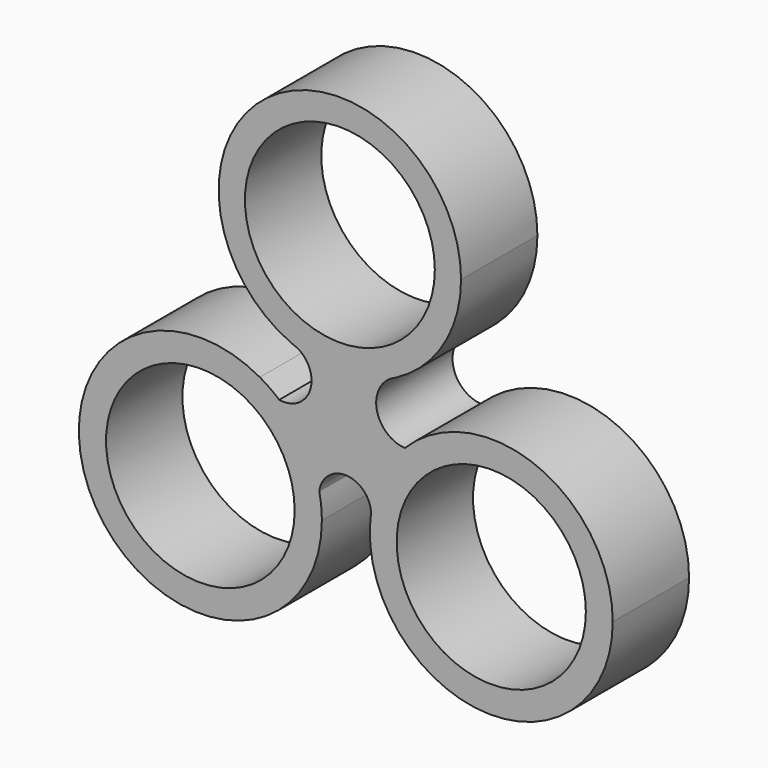
from build123d import *

# Parameters (mm, degrees)
F0_R     = 25.269609
F0_R_2   = 25.096928
F0_R_3   = 25.172724
F1_DEPTH = 11.176
F2_DEPTH = 25.4


with BuildPart() as f1:
    # F0 (on Front) → F1 (new body)
    with BuildSketch(Plane.XZ):
        with BuildLine():
            ThreePointArc((14.880747, 3.041589), (27.571248, 14.919512), (32.254797, 31.658635))
            ThreePointArc((32.254797, 31.658635), (-17.614406, 58.679083), (-13.016276, 2.146798))
            ThreePointArc((-13.016276, 2.146798), (-12.125286, 1.849014), (-11.279411, 1.440316))
            ThreePointArc((-11.279411, 1.440316), (1.247761, -0.572019), (13.581863, 2.402782))
            ThreePointArc((13.581863, 2.402782), (14.217084, 2.751102), (14.880747, 3.041589))
        make_face()
        with Locations((0, 31.658635)):
            Circle(F0_R, mode=Mode.SUBTRACT)
        with BuildLine():
            ThreePointArc((-11.279411, 1.440316), (-12.125286, 1.849014), (-13.016276, 2.146798))
            ThreePointArc((-13.016276, 2.146798), (-12.152978, 1.780933), (-11.279411, 1.440316))
        make_face()
        with BuildLine():
            ThreePointArc((13.581863, 2.402782), (14.234889, 2.714898), (14.880747, 3.041589))
            ThreePointArc((14.880747, 3.041589), (14.217084, 2.751102), (13.581863, 2.402782))
        make_face()
        with BuildLine():
            ThreePointArc((13.581863, 2.402782), (1.247761, -0.572019), (-11.279411, 1.440316))
            ThreePointArc((-11.279411, 1.440316), (-7.954952, -7.439678), (-16.128313, -12.246182))
            ThreePointArc((-16.128313, -12.246182), (-9.308945, -20.349294), (-5.473241, -30.221049))
            ThreePointArc((-5.473241, -30.221049), (1.656512, -24.160667), (8.299679, -30.750807))
            ThreePointArc((8.299679, -30.750807), (11.349062, -20.997474), (17.290288, -12.683146))
            ThreePointArc((17.290288, -12.683146), (9.902989, -6.500326), (13.581863, 2.402782))
        make_face()
        with BuildLine():
            ThreePointArc((-21.299588, -8.638947), (-19.119142, -11.023442), (-16.128313, -12.246182))
            ThreePointArc((-16.128313, -12.246182), (-18.625826, -10.316231), (-21.299588, -8.638947))
        make_face()
        with BuildLine():
            ThreePointArc((-5.473241, -30.221049), (-9.308945, -20.349294), (-16.128313, -12.246182))
            ThreePointArc((-16.128313, -12.246182), (-19.119142, -11.023442), (-21.299588, -8.638947))
            ThreePointArc((-21.299588, -8.638947), (-65.033783, -53.178181), (-4.788793, -36.839139))
            ThreePointArc((-4.788793, -36.839139), (-4.96036, -33.512445), (-5.473241, -30.221049))
        make_face()
        with Locations((-37.126943, -36.839139)):
            Circle(F0_R_2, mode=Mode.SUBTRACT)
        with BuildLine():
            ThreePointArc((72.621992, -35.400108), (52.571315, -5.493344), (17.290288, -12.683146))
            ThreePointArc((17.290288, -12.683146), (11.349062, -20.997474), (8.299679, -30.750807))
            ThreePointArc((8.299679, -30.750807), (37.962092, -67.645169), (72.621992, -35.400108))
        make_face()
        with Locations((40.292807, -35.400108)):
            Circle(F0_R_3, mode=Mode.SUBTRACT)
    extrude(amount=F1_DEPTH)

    # F0 (on Front) → F2 (join)
    with BuildSketch(Plane.XZ):
        with BuildLine():
            ThreePointArc((14.880747, 3.041589), (27.571248, 14.919512), (32.254797, 31.658635))
            ThreePointArc((32.254797, 31.658635), (-17.614406, 58.679083), (-13.016276, 2.146798))
            ThreePointArc((-13.016276, 2.146798), (-12.125286, 1.849014), (-11.279411, 1.440316))
            ThreePointArc((-11.279411, 1.440316), (1.247761, -0.572019), (13.581863, 2.402782))
            ThreePointArc((13.581863, 2.402782), (14.217084, 2.751102), (14.880747, 3.041589))
        make_face()
        with Locations((0, 31.658635)):
            Circle(F0_R, mode=Mode.SUBTRACT)
        with BuildLine():
            ThreePointArc((-11.279411, 1.440316), (-12.125286, 1.849014), (-13.016276, 2.146798))
            ThreePointArc((-13.016276, 2.146798), (-12.152978, 1.780933), (-11.279411, 1.440316))
        make_face()
        with BuildLine():
            ThreePointArc((13.581863, 2.402782), (14.234889, 2.714898), (14.880747, 3.041589))
            ThreePointArc((14.880747, 3.041589), (14.217084, 2.751102), (13.581863, 2.402782))
        make_face()
        with BuildLine():
            ThreePointArc((13.581863, 2.402782), (1.247761, -0.572019), (-11.279411, 1.440316))
            ThreePointArc((-11.279411, 1.440316), (-7.954952, -7.439678), (-16.128313, -12.246182))
            ThreePointArc((-16.128313, -12.246182), (-9.308945, -20.349294), (-5.473241, -30.221049))
            ThreePointArc((-5.473241, -30.221049), (1.656512, -24.160667), (8.299679, -30.750807))
            ThreePointArc((8.299679, -30.750807), (11.349062, -20.997474), (17.290288, -12.683146))
            ThreePointArc((17.290288, -12.683146), (9.902989, -6.500326), (13.581863, 2.402782))
        make_face()
        with BuildLine():
            ThreePointArc((-21.299588, -8.638947), (-19.119142, -11.023442), (-16.128313, -12.246182))
            ThreePointArc((-16.128313, -12.246182), (-18.625826, -10.316231), (-21.299588, -8.638947))
        make_face()
        with BuildLine():
            ThreePointArc((-5.473241, -30.221049), (-9.308945, -20.349294), (-16.128313, -12.246182))
            ThreePointArc((-16.128313, -12.246182), (-19.119142, -11.023442), (-21.299588, -8.638947))
            ThreePointArc((-21.299588, -8.638947), (-65.033783, -53.178181), (-4.788793, -36.839139))
            ThreePointArc((-4.788793, -36.839139), (-4.96036, -33.512445), (-5.473241, -30.221049))
        make_face()
        with Locations((-37.126943, -36.839139)):
            Circle(F0_R_2, mode=Mode.SUBTRACT)
        with BuildLine():
            ThreePointArc((72.621992, -35.400108), (52.571315, -5.493344), (17.290288, -12.683146))
            ThreePointArc((17.290288, -12.683146), (11.349062, -20.997474), (8.299679, -30.750807))
            ThreePointArc((8.299679, -30.750807), (37.962092, -67.645169), (72.621992, -35.400108))
        make_face()
        with Locations((40.292807, -35.400108)):
            Circle(F0_R_3, mode=Mode.SUBTRACT)
    extrude(amount=F2_DEPTH)


solid = f1.part
